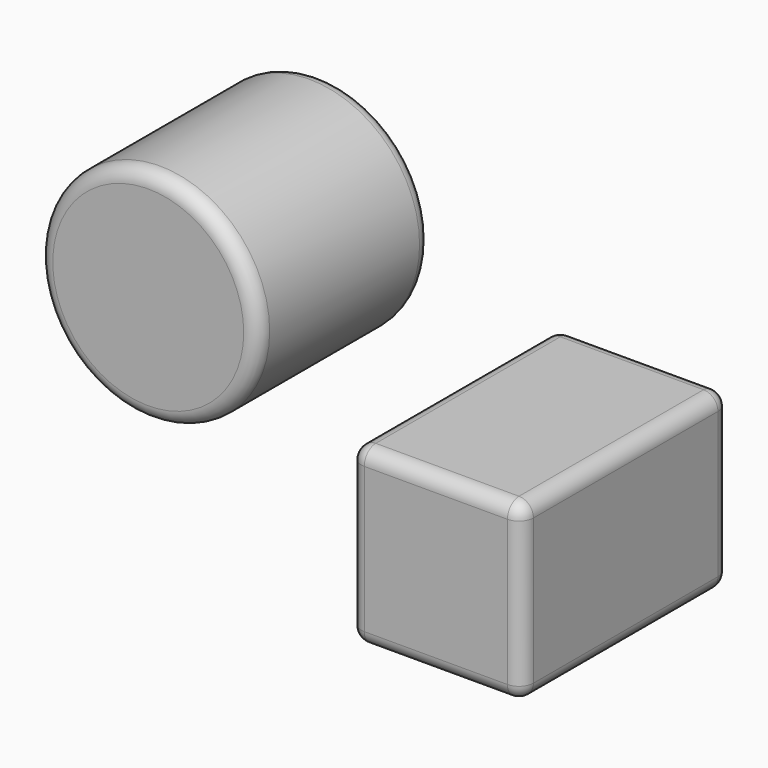
from build123d import *

# Parameters (mm, degrees)
F0_R     = 38.731281
F1_DEPTH = 76.2
F2_R     = 5.08
F3_W     = 60.631369
F3_H     = 61.419338
F4_DEPTH = 91.44
F5_R     = 5.08


with BuildPart() as f1:
    # F0 (on Front) → F1 (new body)
    with BuildSketch(Plane.XZ):
        with Locations((-110.611297, 4.939702)):
            Circle(F0_R)
    extrude(amount=-F1_DEPTH)

    # F2
    f2_edges = [f1.edges().sort_by_distance(p)[0] for p in [
        (-149.342579, 76.2, 4.939702),
        (-149.342579, 0, 4.939702),
    ]]
    fillet(f2_edges, radius=F2_R)


with BuildPart() as f4:
    # F3 (on Front) → F4 (new body)
    with BuildSketch(Plane.XZ):
        with Locations((63.908746, 12.578685)):
            Rectangle(F3_W, F3_H)
    extrude(amount=F4_DEPTH)

    # F5
    f5_edges = [f4.edges().sort_by_distance(p)[0] for p in [
        (94.224431, -91.44, 12.578685),
        (94.224431, -45.72, -18.130984),
        (94.224431, 0, 12.578685),
        (94.224431, -45.72, 43.288354),
        (63.908746, 0, 43.288354),
        (33.593062, 0, 12.578685),
        (63.908746, 0, -18.130984),
        (33.593062, -91.44, 12.578685),
        (33.593062, -45.72, 43.288354),
        (33.593062, -45.72, -18.130984),
        (63.908746, -91.44, -18.130984),
        (63.908746, -91.44, 43.288354),
    ]]
    fillet(f5_edges, radius=F5_R)


solid = Compound([f1.part, f4.part])
